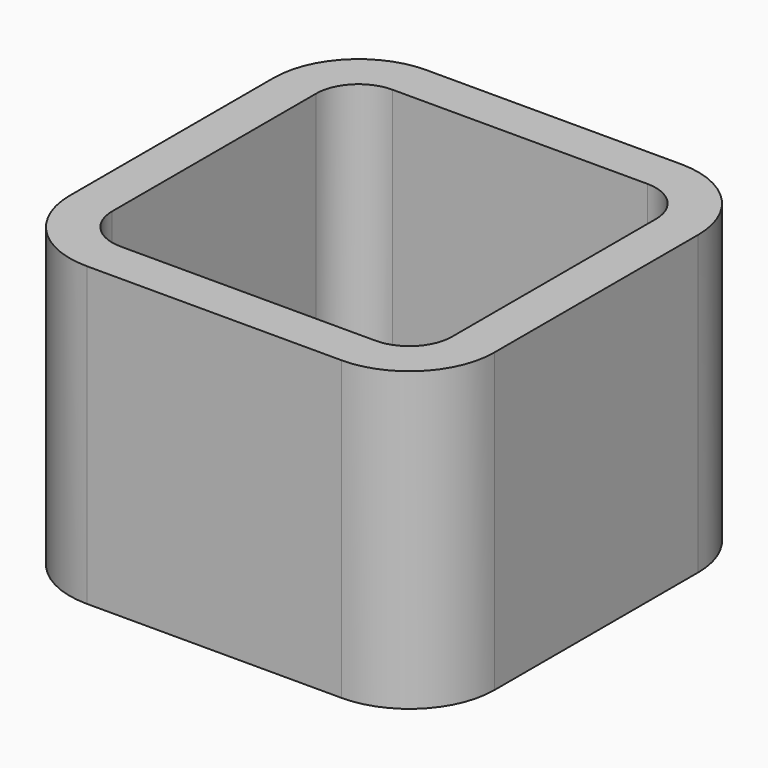
from build123d import *

# Parameters (mm, degrees)
F1_DEPTH = 22.225
F0_R     = 7.9375
F2_DEPTH = 3.175


with BuildPart() as f1:
    # F0 (on Top) → F1 (new body)
    with BuildSketch(Plane.XY):
        with BuildLine():
            Line((-3.175, 22.225), (-3.175, 12.7))
            Line((-3.175, 12.7), (-3.175, 3.175))
            ThreePointArc((-3.175, 3.175), (-1.315128, -1.315128), (3.175, -3.175))
            Line((3.175, -3.175), (12.7, -3.175))
            Line((12.7, -3.175), (22.225, -3.175))
            ThreePointArc((22.225, -3.175), (26.715128, -1.315128), (28.575, 3.175))
            Line((28.575, 3.175), (28.575, 12.7))
            Line((28.575, 12.7), (28.575, 22.225))
            ThreePointArc((28.575, 22.225), (26.715128, 26.715128), (22.225, 28.575))
            Line((22.225, 28.575), (12.7, 28.575))
            Line((12.7, 28.575), (3.175, 28.575))
            ThreePointArc((3.175, 28.575), (-1.315128, 26.715128), (-3.175, 22.225))
        make_face()
        with BuildLine():
            Line((0, 3.175), (0, 12.7))
            Line((0, 12.7), (0, 22.225))
            ThreePointArc((0, 22.225), (0.929936, 24.470064), (3.175, 25.4))
            Line((3.175, 25.4), (12.7, 25.4))
            Line((12.7, 25.4), (22.225, 25.4))
            ThreePointArc((22.225, 25.4), (24.470064, 24.470064), (25.4, 22.225))
            Line((25.4, 22.225), (25.4, 12.7))
            Line((25.4, 12.7), (25.4, 3.175))
            ThreePointArc((25.4, 3.175), (24.470064, 0.929936), (22.225, 0))
            Line((22.225, 0), (12.7, 0))
            Line((12.7, 0), (3.175, 0))
            ThreePointArc((3.175, 0), (0.929936, 0.929936), (0, 3.175))
        make_face(mode=Mode.SUBTRACT)
    extrude(amount=F1_DEPTH)

    # F0 (on Top) → F2 (join)
    with BuildSketch(Plane.XY):
        with BuildLine():
            Line((0, 22.225), (0, 12.7))
            Line((0, 12.7), (0, 3.175))
            ThreePointArc((0, 3.175), (0.929936, 0.929936), (3.175, 0))
            Line((3.175, 0), (12.7, 0))
            Line((12.7, 0), (22.225, 0))
            ThreePointArc((22.225, 0), (24.470064, 0.929936), (25.4, 3.175))
            Line((25.4, 3.175), (25.4, 12.7))
            Line((25.4, 12.7), (25.4, 22.225))
            ThreePointArc((25.4, 22.225), (24.470064, 24.470064), (22.225, 25.4))
            Line((22.225, 25.4), (12.7, 25.4))
            Line((12.7, 25.4), (3.175, 25.4))
            ThreePointArc((3.175, 25.4), (0.929936, 24.470064), (0, 22.225))
        make_face()
        with Locations((12.7, 12.7)):
            Circle(F0_R, mode=Mode.SUBTRACT)
    extrude(amount=F2_DEPTH)


solid = f1.part
